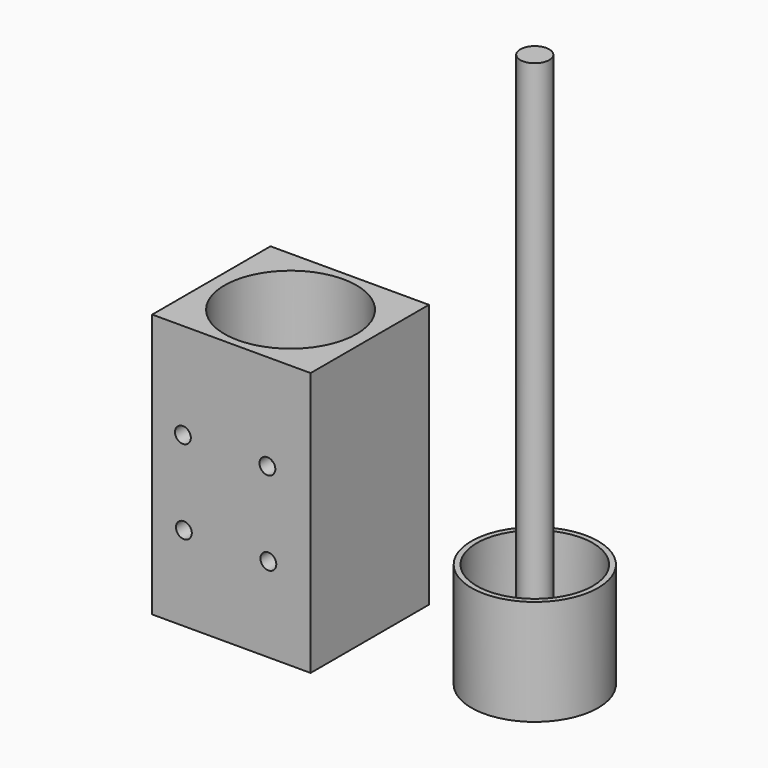
from build123d import *

# Parameters (mm, degrees)
F0_W      = 30
F0_H      = 28
F1_DEPTH  = 50
F2_R      = 12.5
F3_DEPTH  = 40
F4_R      = 8
F4_R_2    = 3
F5_DEPTH  = 10
F6_R      = 8
F6_R_2    = 2.75
F7_DEPTH  = 10
F6_R_3    = 12
F6_R_4    = 11
F8_DEPTH  = 20
F9_DEPTH  = 5
F10_DEPTH = 10.001
F11_DEPTH = 100
F12_R     = 1.5
F13_DEPTH = 29.8355641133


with BuildPart() as f1:
    # F0 (on Top) → F1 (new body)
    with BuildSketch(Plane.XY):
        with Locations((-19.0164810047, -3.8345641133)):
            Rectangle(F0_W, F0_H)
    extrude(amount=F1_DEPTH)

    # F2 (on face) → F3 (cut)
    with BuildSketch(Plane.XY.offset(50)):
        with Locations((-19.0164810047, -3.8345641133)):
            Circle(F2_R)
    extrude(amount=-F3_DEPTH, mode=Mode.SUBTRACT)

    # F4 (on face) → F5 (join)
    with BuildSketch(Plane.XY.offset(10)):
        with Locations((-19.0164810047, -3.8345641133)):
            Circle(F4_R)
        with Locations((-19.0164810047, -3.8345641133)):
            Circle(F4_R_2, mode=Mode.SUBTRACT)
    extrude(amount=F5_DEPTH)

    # F10 (cut, through all): a face of the model
    f10_faces = [f1.faces().sort_by_distance(p)[0] for p in [
        (-19.0164810047, -3.8345641133, 10),
    ]]
    extrude(f10_faces, amount=-F10_DEPTH, mode=Mode.SUBTRACT)

    # F12 (on face) → F13 (cut, through all)
    with BuildSketch(Plane.XZ.offset(17.8345641133)):
        with Locations((-28.2, 31.8164810047)):
            Circle(F12_R)
        with Locations((-12.2, 31.8164810047)):
            Circle(F12_R)
        with Locations((-12.0164810047, 16)):
            Circle(F12_R)
        with Locations((-28.0164810047, 16)):
            Circle(F12_R)
    extrude(amount=-F13_DEPTH, mode=Mode.SUBTRACT)


with BuildPart() as f7:
    # F6 (on Top) → F7 (new body)
    with BuildSketch(Plane.XY):
        with Locations((24.1683647183, 0)):
            Circle(F6_R)
        with Locations((24.1683647183, 0)):
            Circle(F6_R_2, mode=Mode.SUBTRACT)
    extrude(amount=F7_DEPTH)



with BuildPart() as f8:
    # F6 (on Top) → F8 (new body)
    with BuildSketch(Plane.XY):
        with Locations((24.1683647183, 0)):
            Circle(F6_R_3)
        with Locations((24.1683647183, 0)):
            Circle(F6_R_4, mode=Mode.SUBTRACT)
    extrude(amount=F8_DEPTH)


with BuildPart() as f7_1:
    add(f7.part)

    add(f8.part)  # F9 merges F8
    # F6 (on Top) → F9 (join)
    with BuildSketch(Plane.XY):
        with Locations((24.1683647183, 0)):
            Circle(F6_R_3)
        with Locations((24.1683647183, 0)):
            Circle(F6_R_4, mode=Mode.SUBTRACT)
        with Locations((24.1683647183, 0)):
            Circle(F6_R_4)
        with Locations((24.1683647183, 0)):
            Circle(F6_R, mode=Mode.SUBTRACT)
        with Locations((24.1683647183, 0)):
            Circle(F6_R)
        with Locations((24.1683647183, 0)):
            Circle(F6_R_2, mode=Mode.SUBTRACT)
        with Locations((24.1683647183, 0)):
            Circle(F6_R_2)
    extrude(amount=F9_DEPTH)

    # F11 (add): a face of the model
    f11_faces = [f7_1.faces().sort_by_distance(p)[0] for p in [
        (24.1683647183, 0, 5),
    ]]
    extrude(f11_faces, amount=F11_DEPTH)


solid = Compound([f1.part, f7_1.part])
